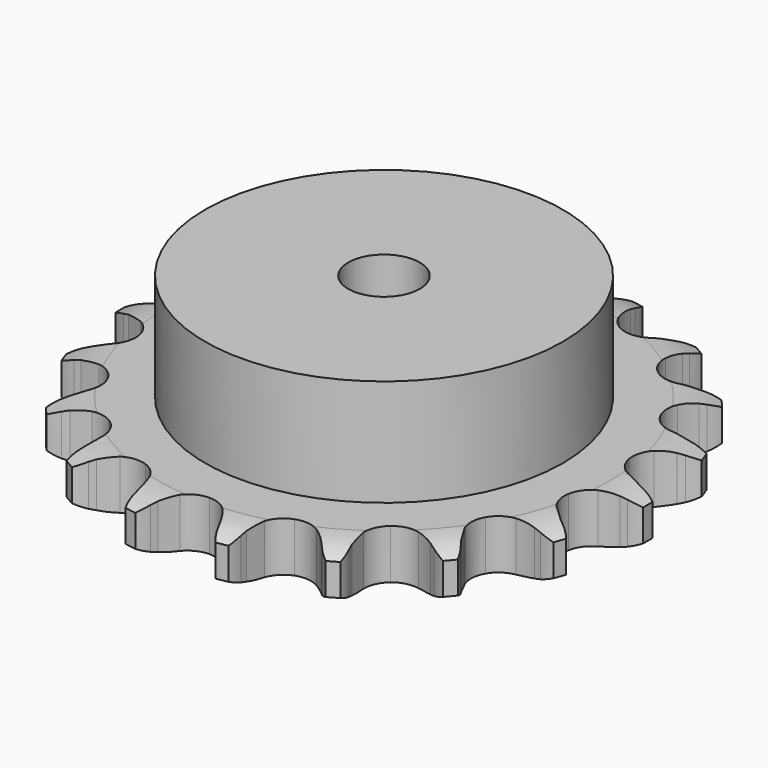
from build123d import *

# Parameters (mm, degrees)
PAD_DEPTH         = 11.1
SKETCH001_R       = 40
PAD001_DEPTH      = 35
SKETCH002_R       = 8
POCKET_DEPTH      = 0.001
POCKET_DEPTH_BACK = -35.001


with BuildPart() as part:
    # Sprocket → Pad (new body)
    with BuildSketch(Plane.XY):
        with BuildLine():
            ThreePointArc((-10.555317, 59.862178), (-8.754711, 58.078438), (-7.459976, 55.899546))
            Line((-7.459976, 55.899546), (-6.883971, 54.571303))
            ThreePointArc((-6.883971, 54.571303), (-5.949732, 52.750867), (-4.787505, 51.066821))
            ThreePointArc((-4.787505, 51.066821), (-2.659531, 49.358942), (0, 48.749014))
            ThreePointArc((0, 48.749014), (2.659531, 49.358942), (4.787505, 51.066821))
            ThreePointArc((4.787505, 51.066821), (5.949732, 52.750867), (6.883971, 54.571303))
            Line((6.883971, 54.571303), (7.459976, 55.899546))
            ThreePointArc((7.459976, 55.899546), (8.754711, 58.078438), (10.555317, 59.862178))
            ThreePointArc((10.555317, 59.862178), (11.637258, 57.570167), (12.108686, 55.079853))
            Line((12.108686, 55.079853), (12.195668, 53.634707))
            ThreePointArc((12.195668, 53.634707), (12.45094, 51.604529), (12.967099, 49.624538))
            ThreePointArc((12.967099, 49.624538), (14.38261, 47.291847), (16.673145, 45.809089))
            ThreePointArc((16.673145, 45.809089), (19.380895, 45.47262), (21.964664, 46.349692))
            Line((21.964664, 46.349692), (25.133301, 48.925794))
            ThreePointArc((25.133301, 48.925794), (25.619001, 49.4628), (26.128855, 49.976929))
            ThreePointArc((26.128855, 49.976929), (28.090733, 51.581592), (30.392824, 52.641916))
            ThreePointArc((30.392824, 52.641916), (30.625603, 50.118085), (30.216862, 47.616717))
            Line((30.216862, 47.616717), (29.80433, 46.228974))
            ThreePointArc((29.80433, 46.228974), (29.349845, 44.233923), (29.157679, 42.196803))
            ThreePointArc((29.157679, 42.196803), (29.689997, 39.520657), (31.335262, 37.343911))
            ThreePointArc((31.335262, 37.343911), (33.764636, 36.101629), (36.492561, 36.042106))
            Line((36.492561, 36.042106), (40.351185, 37.379112))
            ThreePointArc((40.351185, 37.379112), (40.99126, 37.717613), (41.646209, 38.026356))
            ThreePointArc((41.646209, 38.026356), (44.038598, 38.863245), (46.564508, 39.072262))
            ThreePointArc((46.564508, 39.072262), (45.920047, 36.621021), (44.680439, 34.410302))
            Line((44.680439, 34.410302), (43.818149, 33.247345))
            ThreePointArc((43.818149, 33.247345), (42.708725, 31.528053), (41.831412, 29.679511))
            ThreePointArc((41.831412, 29.679511), (41.416332, 26.982693), (42.217884, 24.374507))
            ThreePointArc((42.217884, 24.374507), (44.075864, 22.376249), (46.618917, 21.38731))
            Line((46.618917, 21.38731), (50.70212, 21.323958))
            ThreePointArc((50.70212, 21.323958), (51.419368, 21.423126), (52.140415, 21.489244))
            ThreePointArc((52.140415, 21.489244), (54.674758, 21.457417), (57.119825, 20.789916))
            ThreePointArc((57.119825, 20.789916), (55.675857, 18.706922), (53.754895, 17.053497))
            Line((53.754895, 17.053497), (52.546853, 16.255595))
            ThreePointArc((52.546853, 16.255595), (50.916303, 15.019435), (49.45966, 13.582432))
            ThreePointArc((49.45966, 13.582432), (48.147246, 11.190218), (48.008407, 8.465177))
            ThreePointArc((48.008407, 8.465177), (49.070892, 5.951963), (51.122343, 4.152889))
            Line((51.122343, 4.152889), (54.937631, 2.69682))
            ThreePointArc((54.937631, 2.69682), (55.645542, 2.544694), (56.345717, 2.360212))
            ThreePointArc((56.345717, 2.360212), (58.716336, 1.463508), (60.785649, 0))
            ThreePointArc((60.785649, 0), (58.716336, -1.463508), (56.345717, -2.360212))
            Line((56.345717, -2.360212), (54.937631, -2.69682))
            ThreePointArc((54.937631, -2.69682), (52.982623, -3.300749), (51.122343, -4.152889))
            ThreePointArc((51.122343, -4.152889), (49.070892, -5.951963), (48.008407, -8.465177))
            ThreePointArc((48.008407, -8.465177), (48.147246, -11.190218), (49.45966, -13.582432))
            Line((49.45966, -13.582432), (52.546853, -16.255595))
            ThreePointArc((52.546853, -16.255595), (53.160041, -16.640666), (53.754895, -17.053497))
            ThreePointArc((53.754895, -17.053497), (55.675857, -18.706922), (57.119825, -20.789916))
            ThreePointArc((57.119825, -20.789916), (54.674758, -21.457417), (52.140415, -21.489244))
            Line((52.140415, -21.489244), (50.70212, -21.323958))
            ThreePointArc((50.70212, -21.323958), (48.658457, -21.222814), (46.618917, -21.38731))
            ThreePointArc((46.618917, -21.38731), (44.075864, -22.376249), (42.217884, -24.374507))
            ThreePointArc((42.217884, -24.374507), (41.416332, -26.982693), (41.831412, -29.679511))
            Line((41.831412, -29.679511), (43.818149, -33.247345))
            ThreePointArc((43.818149, -33.247345), (44.262656, -33.818916), (44.680439, -34.410302))
            ThreePointArc((44.680439, -34.410302), (45.920047, -36.621021), (46.564508, -39.072262))
            ThreePointArc((46.564508, -39.072262), (44.038598, -38.863245), (41.646209, -38.026356))
            Line((41.646209, -38.026356), (40.351185, -37.379112))
            ThreePointArc((40.351185, -37.379112), (38.465363, -36.585095), (36.492561, -36.042106))
            ThreePointArc((36.492561, -36.042106), (33.764636, -36.101629), (31.335262, -37.343911))
            ThreePointArc((31.335262, -37.343911), (29.689997, -39.520657), (29.157679, -42.196803))
            Line((29.157679, -42.196803), (29.80433, -46.228974))
            ThreePointArc((29.80433, -46.228974), (30.02654, -46.918106), (30.216862, -47.616717))
            ThreePointArc((30.216862, -47.616717), (30.625603, -50.118085), (30.392824, -52.641916))
            ThreePointArc((30.392824, -52.641916), (28.090733, -51.581592), (26.128855, -49.976929))
            Line((26.128855, -49.976929), (25.133301, -48.925794))
            ThreePointArc((25.133301, -48.925794), (23.632779, -47.534673), (21.964664, -46.349692))
            ThreePointArc((21.964664, -46.349692), (19.380895, -45.47262), (16.673145, -45.809089))
            ThreePointArc((16.673145, -45.809089), (14.38261, -47.291847), (12.967099, -49.624538))
            Line((12.967099, -49.624538), (12.195668, -53.634707))
            ThreePointArc((12.195668, -53.634707), (12.168781, -54.358279), (12.108686, -55.079853))
            ThreePointArc((12.108686, -55.079853), (11.637258, -57.570167), (10.555317, -59.862178))
            ThreePointArc((10.555317, -59.862178), (8.754711, -58.078438), (7.459976, -55.899546))
            Line((7.459976, -55.899546), (6.883971, -54.571303))
            ThreePointArc((6.883971, -54.571303), (5.949732, -52.750867), (4.787505, -51.066821))
            ThreePointArc((4.787505, -51.066821), (2.659531, -49.358942), (0, -48.749014))
            ThreePointArc((0, -48.749014), (-2.659531, -49.358942), (-4.787505, -51.066821))
            Line((-4.787505, -51.066821), (-6.883971, -54.571303))
            ThreePointArc((-6.883971, -54.571303), (-7.156713, -55.242042), (-7.459976, -55.899546))
            ThreePointArc((-7.459976, -55.899546), (-8.754711, -58.078438), (-10.555317, -59.862178))
            ThreePointArc((-10.555317, -59.862178), (-11.637258, -57.570167), (-12.108686, -55.079853))
            Line((-12.108686, -55.079853), (-12.195668, -53.634707))
            ThreePointArc((-12.195668, -53.634707), (-12.45094, -51.604529), (-12.967099, -49.624538))
            ThreePointArc((-12.967099, -49.624538), (-14.38261, -47.291847), (-16.673145, -45.809089))
            ThreePointArc((-16.673145, -45.809089), (-19.380895, -45.47262), (-21.964664, -46.349692))
            Line((-21.964664, -46.349692), (-25.133301, -48.925794))
            ThreePointArc((-25.133301, -48.925794), (-25.619001, -49.4628), (-26.128855, -49.976929))
            ThreePointArc((-26.128855, -49.976929), (-28.090733, -51.581592), (-30.392824, -52.641916))
            ThreePointArc((-30.392824, -52.641916), (-30.625603, -50.118085), (-30.216862, -47.616717))
            Line((-30.216862, -47.616717), (-29.80433, -46.228974))
            ThreePointArc((-29.80433, -46.228974), (-29.349845, -44.233923), (-29.157679, -42.196803))
            ThreePointArc((-29.157679, -42.196803), (-29.689997, -39.520657), (-31.335262, -37.343911))
            ThreePointArc((-31.335262, -37.343911), (-33.764636, -36.101629), (-36.492561, -36.042106))
            Line((-36.492561, -36.042106), (-40.351185, -37.379112))
            ThreePointArc((-40.351185, -37.379112), (-40.99126, -37.717613), (-41.646209, -38.026356))
            ThreePointArc((-41.646209, -38.026356), (-44.038598, -38.863245), (-46.564508, -39.072262))
            ThreePointArc((-46.564508, -39.072262), (-45.920047, -36.621021), (-44.680439, -34.410302))
            Line((-44.680439, -34.410302), (-43.818149, -33.247345))
            ThreePointArc((-43.818149, -33.247345), (-42.708725, -31.528053), (-41.831412, -29.679511))
            ThreePointArc((-41.831412, -29.679511), (-41.416332, -26.982693), (-42.217884, -24.374507))
            ThreePointArc((-42.217884, -24.374507), (-44.075864, -22.376249), (-46.618917, -21.38731))
            Line((-46.618917, -21.38731), (-50.70212, -21.323958))
            ThreePointArc((-50.70212, -21.323958), (-51.419368, -21.423126), (-52.140415, -21.489244))
            ThreePointArc((-52.140415, -21.489244), (-54.674758, -21.457417), (-57.119825, -20.789916))
            ThreePointArc((-57.119825, -20.789916), (-55.675857, -18.706922), (-53.754895, -17.053497))
            Line((-53.754895, -17.053497), (-52.546853, -16.255595))
            ThreePointArc((-52.546853, -16.255595), (-50.916303, -15.019435), (-49.45966, -13.582432))
            ThreePointArc((-49.45966, -13.582432), (-48.147246, -11.190218), (-48.008407, -8.465177))
            ThreePointArc((-48.008407, -8.465177), (-49.070892, -5.951963), (-51.122343, -4.152889))
            Line((-51.122343, -4.152889), (-54.937631, -2.69682))
            ThreePointArc((-54.937631, -2.69682), (-55.645542, -2.544694), (-56.345717, -2.360212))
            ThreePointArc((-56.345717, -2.360212), (-58.716336, -1.463508), (-60.785649, 0))
            ThreePointArc((-60.785649, 0), (-58.716336, 1.463508), (-56.345717, 2.360212))
            Line((-56.345717, 2.360212), (-54.937631, 2.69682))
            ThreePointArc((-54.937631, 2.69682), (-52.982623, 3.300749), (-51.122343, 4.152889))
            ThreePointArc((-51.122343, 4.152889), (-49.070892, 5.951963), (-48.008407, 8.465177))
            ThreePointArc((-48.008407, 8.465177), (-48.147246, 11.190218), (-49.45966, 13.582432))
            Line((-49.45966, 13.582432), (-52.546853, 16.255595))
            ThreePointArc((-52.546853, 16.255595), (-53.160041, 16.640666), (-53.754895, 17.053497))
            ThreePointArc((-53.754895, 17.053497), (-55.675857, 18.706922), (-57.119825, 20.789916))
            ThreePointArc((-57.119825, 20.789916), (-54.674758, 21.457417), (-52.140415, 21.489244))
            Line((-52.140415, 21.489244), (-50.70212, 21.323958))
            ThreePointArc((-50.70212, 21.323958), (-48.658457, 21.222814), (-46.618917, 21.38731))
            ThreePointArc((-46.618917, 21.38731), (-44.075864, 22.376249), (-42.217884, 24.374507))
            ThreePointArc((-42.217884, 24.374507), (-41.416332, 26.982693), (-41.831412, 29.679511))
            Line((-41.831412, 29.679511), (-43.818149, 33.247345))
            ThreePointArc((-43.818149, 33.247345), (-44.262656, 33.818916), (-44.680439, 34.410302))
            ThreePointArc((-44.680439, 34.410302), (-45.920047, 36.621021), (-46.564508, 39.072262))
            ThreePointArc((-46.564508, 39.072262), (-44.038598, 38.863245), (-41.646209, 38.026356))
            Line((-41.646209, 38.026356), (-40.351185, 37.379112))
            ThreePointArc((-40.351185, 37.379112), (-38.465363, 36.585095), (-36.492561, 36.042106))
            ThreePointArc((-36.492561, 36.042106), (-33.764636, 36.101629), (-31.335262, 37.343911))
            ThreePointArc((-31.335262, 37.343911), (-29.689997, 39.520657), (-29.157679, 42.196803))
            Line((-29.157679, 42.196803), (-29.80433, 46.228974))
            ThreePointArc((-29.80433, 46.228974), (-30.02654, 46.918106), (-30.216862, 47.616717))
            ThreePointArc((-30.216862, 47.616717), (-30.625603, 50.118085), (-30.392824, 52.641916))
            ThreePointArc((-30.392824, 52.641916), (-28.090733, 51.581592), (-26.128855, 49.976929))
            Line((-26.128855, 49.976929), (-25.133301, 48.925794))
            ThreePointArc((-25.133301, 48.925794), (-23.632779, 47.534673), (-21.964664, 46.349692))
            ThreePointArc((-21.964664, 46.349692), (-19.380895, 45.47262), (-16.673145, 45.809089))
            ThreePointArc((-16.673145, 45.809089), (-14.38261, 47.291847), (-12.967099, 49.624538))
            Line((-12.967099, 49.624538), (-12.195668, 53.634707))
            ThreePointArc((-12.195668, 53.634707), (-12.168781, 54.358279), (-12.108686, 55.079853))
            ThreePointArc((-12.108686, 55.079853), (-11.637258, 57.570167), (-10.555317, 59.862178))
        make_face()
    extrude(amount=PAD_DEPTH)

    # Sketch → Groove (revolve, cut)
    with BuildSketch(Plane.XZ):
        with BuildLine():
            Line((50.514719, 0), (59, 0))
            Line((67.485281, 0), (59, 0))
            Line((67.485281, 11.1), (67.485281, 0))
            Line((59, 11.1), (67.485281, 11.1))
            Line((50.514719, 11.1), (59, 11.1))
            ThreePointArc((59, 9.1), (54.873618, 10.593242), (50.514719, 11.1))
            Line((59, 2), (59, 9.1))
            ThreePointArc((50.514719, 0), (54.873618, 0.506758), (59, 2))
        make_face()
    revolve(axis=Axis((0, 0, 0), (0, 0, 1)), mode=Mode.SUBTRACT)

    # Sketch001 → Pad001 (join)
    with BuildSketch(Plane.XY):
        Circle(SKETCH001_R)
    extrude(amount=PAD001_DEPTH)

    # Sketch002 → Pocket (cut, two sides)
    with BuildSketch(Plane.XY) as pocket_sk:
        Circle(SKETCH002_R)
    extrude(amount=-POCKET_DEPTH, mode=Mode.SUBTRACT)
    extrude(pocket_sk.sketch, amount=-POCKET_DEPTH_BACK, mode=Mode.SUBTRACT)


solid = part.part
